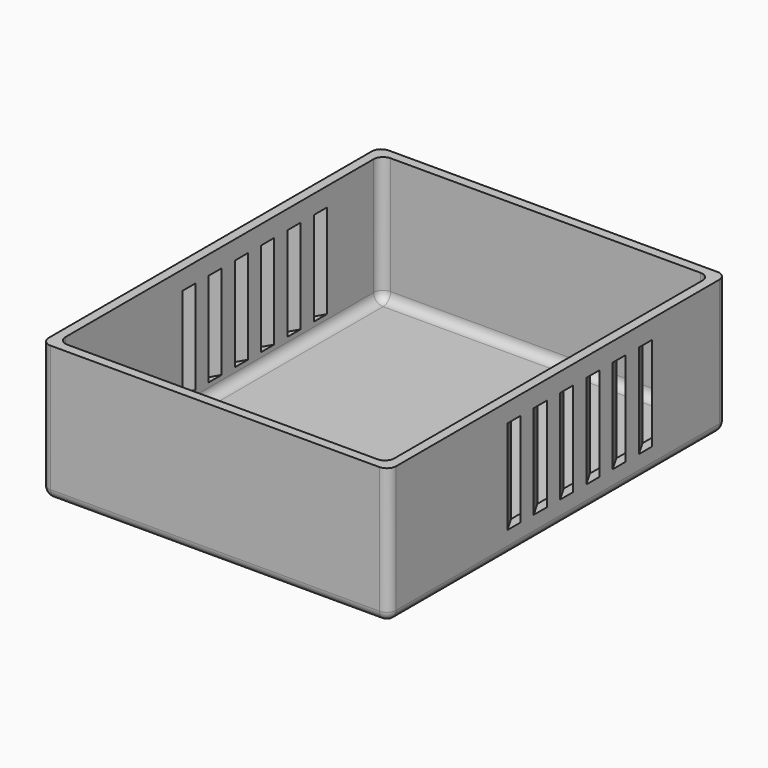
from build123d import *

# Parameters (mm, degrees)
EXTRUDE007_DEPTH = 20
BOX003_W         = 70
BOX003_H         = 86
BOX003_DEPTH     = 39
FILLET001_R      = 2
BOX002_W         = 74
BOX002_H         = 90
BOX002_DEPTH     = 29
FILLET_R         = 2


with BuildPart() as ventsbottomcut:
    # Sketch007 → Extrude007 (new body)
    with BuildSketch(Plane.XY):
        Polygon((4, 77), (6, 76.999982), (-3.999992, 59.679487), (-5.999992, 59.679487), align=None)
        Polygon((-5.999992, 52.679487), (-3.999992, 52.679487), (6, 70), (4, 70), align=None)
        Polygon((-3.999992, 45.679487), (-5.999992, 45.679487), (4, 63), (6, 63), align=None)
        Polygon((4, 56), (6, 56), (-3.999992, 38.679487), (-5.999992, 38.679487), align=None)
        Polygon((4, 49), (6, 49), (-3.999992, 31.679487), (-5.999992, 31.679487), align=None)
        Polygon((4, 42), (6, 42), (-3.999992, 24.679487), (-5.999992, 24.679487), align=None)
        Polygon((70, 77), (68, 77), (78, 59.679492), (80, 59.679492), align=None)
        Polygon((68, 70), (70, 70), (80, 52.679492), (78, 52.679492), align=None)
        Polygon((68, 63), (70, 63), (80, 45.679492), (78, 45.679492), align=None)
        Polygon((68, 56), (70, 56), (80, 38.679492), (78, 38.679492), align=None)
        Polygon((68, 49), (70, 49), (80, 31.679492), (78, 31.679492), align=None)
        Polygon((68, 42), (70, 42), (80, 24.679492), (78, 24.679492), align=None)
    extrude(amount=EXTRUDE007_DEPTH)


with BuildPart() as ventsbottomcut_1:
    # Extrude007 placement: moved
    add(ventsbottomcut.part.moved(Location((0, 0, 5))))


with BuildPart() as bottomcut:
    # Box003 → Box003 (new body)
    with BuildSketch(Plane(origin=(2, 2, 2), x_dir=(1, 0, 0), z_dir=(0, 0, 1))):
        with Locations((35, 43)):
            Rectangle(BOX003_W, BOX003_H)
    extrude(amount=BOX003_DEPTH)

    # Fillet001
    fillet001_edges = [bottomcut.edges().sort_by_distance(p)[0] for p in [
        (2, 2, 21.5),
        (2, 88, 21.5),
        (2, 45, 2),
        (72, 2, 21.5),
        (72, 88, 21.5),
        (72, 45, 2),
        (37, 2, 2),
        (37, 88, 2),
    ]]
    fillet(fillet001_edges, radius=FILLET001_R)


with BuildPart() as bottom004done:
    # Box002 → Box002 (new body)
    with BuildSketch(Plane.XY):
        with Locations((37, 45)):
            Rectangle(BOX002_W, BOX002_H)
    extrude(amount=BOX002_DEPTH)

    # Fillet
    fillet_edges = [bottom004done.edges().sort_by_distance(p)[0] for p in [
        (0, 0, 14.5),
        (0, 90, 14.5),
        (0, 45, 0),
        (74, 0, 14.5),
        (74, 90, 14.5),
        (74, 45, 0),
        (37, 0, 0),
        (37, 90, 0),
    ]]
    fillet(fillet_edges, radius=FILLET_R)

    # Cut: cut bottomCut
    add(bottomcut.part, mode=Mode.SUBTRACT)

    # Cut002: cut ventsBottomCut
    add(ventsbottomcut_1.part, mode=Mode.SUBTRACT)


solid = bottom004done.part
